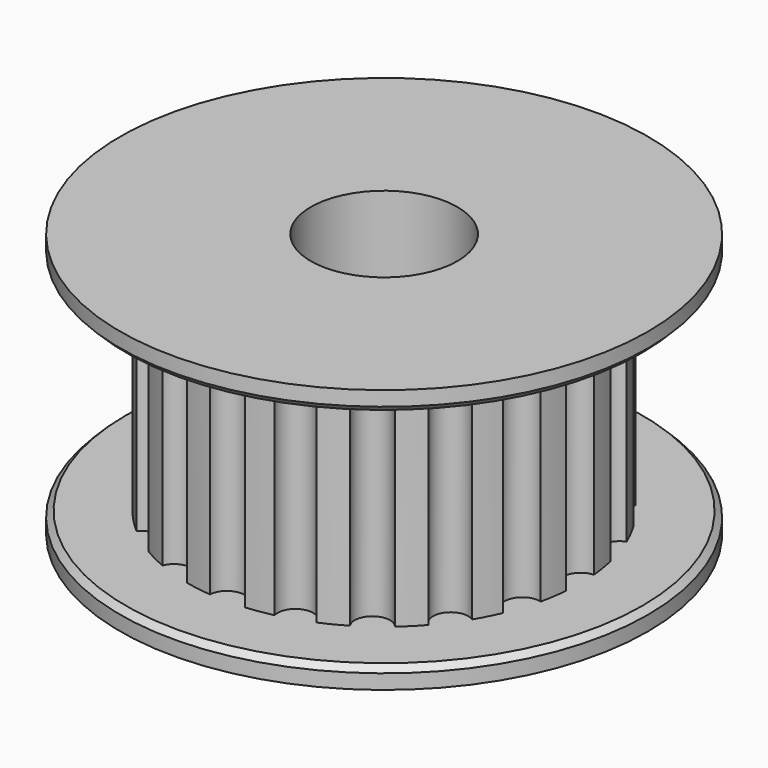
from build123d import *

# Parameters (mm, degrees)
CYLINDER017_R     = 2.5
CYLINDER017_DEPTH = 28.6
CYLINDER015_R     = 9
CYLINDER015_DEPTH = 0.7
CHAMFER015_SIZE   = 0.2
CYLINDER016_R     = 9
CYLINDER016_DEPTH = 0.7
CHAMFER016_SIZE   = 0.2
CYLINDER013_R     = 0.6
CYLINDER013_DEPTH = 7.6
ARRAY002_COUNT    = 20
CYLINDER014_R     = 6.7
CYLINDER014_DEPTH = 7.6


with BuildPart() as cilindro007:
    # Cylinder017 → Cylinder017 (new body)
    with BuildSketch(Plane.XY.offset(-6)):
        Circle(CYLINDER017_R)
    extrude(amount=CYLINDER017_DEPTH)


with BuildPart() as chamfer015:
    # Cylinder015 → Cylinder015 (new body)
    with BuildSketch(Plane.XY):
        Circle(CYLINDER015_R)
    extrude(amount=CYLINDER015_DEPTH)

    # Chamfer015
    chamfer015_edges = [chamfer015.edges().sort_by_distance(p)[0] for p in [
        (-9, 0, 0.7),
    ]]
    chamfer(chamfer015_edges, length=CHAMFER015_SIZE)


with BuildPart() as chamfer016:
    # Cylinder016 → Cylinder016 (new body)
    with BuildSketch(Plane.XY.offset(8.3)):
        Circle(CYLINDER016_R)
    extrude(amount=CYLINDER016_DEPTH)

    # Chamfer016
    chamfer016_edges = [chamfer016.edges().sort_by_distance(p)[0] for p in [
        (-9, 0, 8.3),
    ]]
    chamfer(chamfer016_edges, length=CHAMFER016_SIZE)


with BuildPart() as array002:
    # Cylinder013 → Cylinder013 (new body)
    with BuildSketch(Plane(origin=(6.7, 0, 0), x_dir=(1, 0, 0), z_dir=(0, 0, 1))):
        Circle(CYLINDER013_R)
    extrude(amount=CYLINDER013_DEPTH)

    # Array002: Array002 ×20 about axis
    array002_axis = Axis((0, 0, 0), (0, 0, 1))


with BuildPart() as array002_1:
    add(array002.part)
    for i in range(1, ARRAY002_COUNT):
        add(array002.part.rotate(array002_axis, i * 360 / ARRAY002_COUNT))


with BuildPart() as cut007:
    # Cylinder014 → Cylinder014 (new body)
    with BuildSketch(Plane.XY):
        Circle(CYLINDER014_R)
    extrude(amount=CYLINDER014_DEPTH)

    # Cut006: cut Array002
    add(array002_1.part, mode=Mode.SUBTRACT)


with BuildPart() as cut007_1:
    # Cut006 placement: moved
    add(cut007.part.moved(Location((0, 0, 0.7))))

    # Fusion007002: union Chamfer015, Chamfer016
    add(chamfer015.part)
    add(chamfer016.part)

    # Cut007: cut Cilindro007
    add(cilindro007.part, mode=Mode.SUBTRACT)


solid = cut007_1.part
